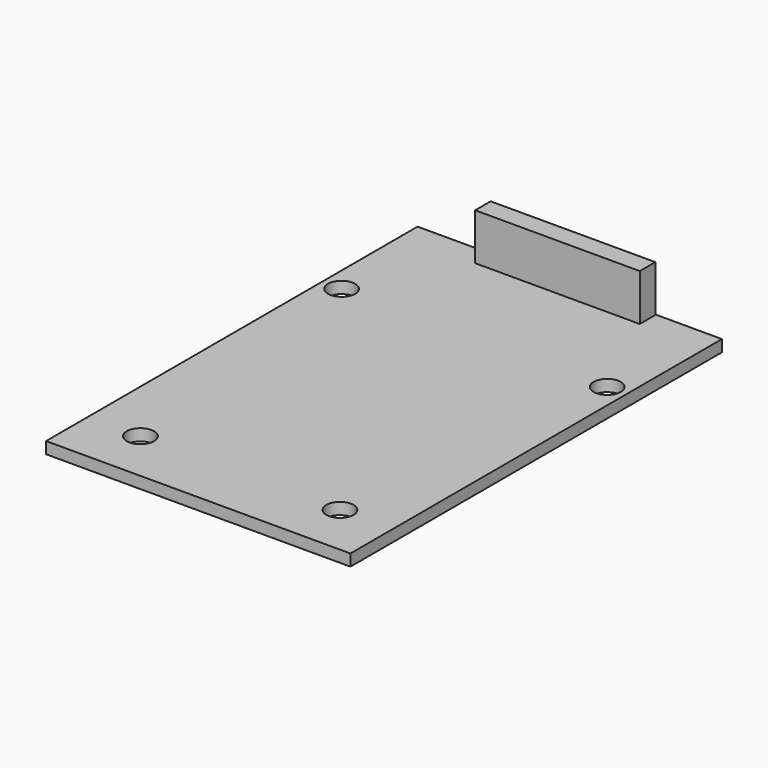
from build123d import *

# Parameters (mm, degrees)
F0_W     = 39.2
F0_H     = 59.8
F0_R     = 1.75
F1_DEPTH = 1.5
F2_W     = 21.2
F2_H     = 2.5
F3_DEPTH = 6


with BuildPart() as f1:
    # F0 (on Top) → F1 (new body)
    with BuildSketch(Plane.XY):
        Rectangle(F0_W, F0_H)
        with Locations((-12.85, -23.15)):
            Circle(F0_R, mode=Mode.SUBTRACT)
        with Locations((12.85, -23.15)):
            Circle(F0_R, mode=Mode.SUBTRACT)
        with Locations((-17.1, 14.55)):
            Circle(F0_R, mode=Mode.SUBTRACT)
        with Locations((17.1, 14.55)):
            Circle(F0_R, mode=Mode.SUBTRACT)
    extrude(amount=F1_DEPTH)

    # F2 (on face) → F3 (join)
    with BuildSketch(Plane.XY.offset(1.5)):
        with Locations((0.5, 28.55)):
            Rectangle(F2_W, F2_H)
    extrude(amount=F3_DEPTH)


solid = f1.part
